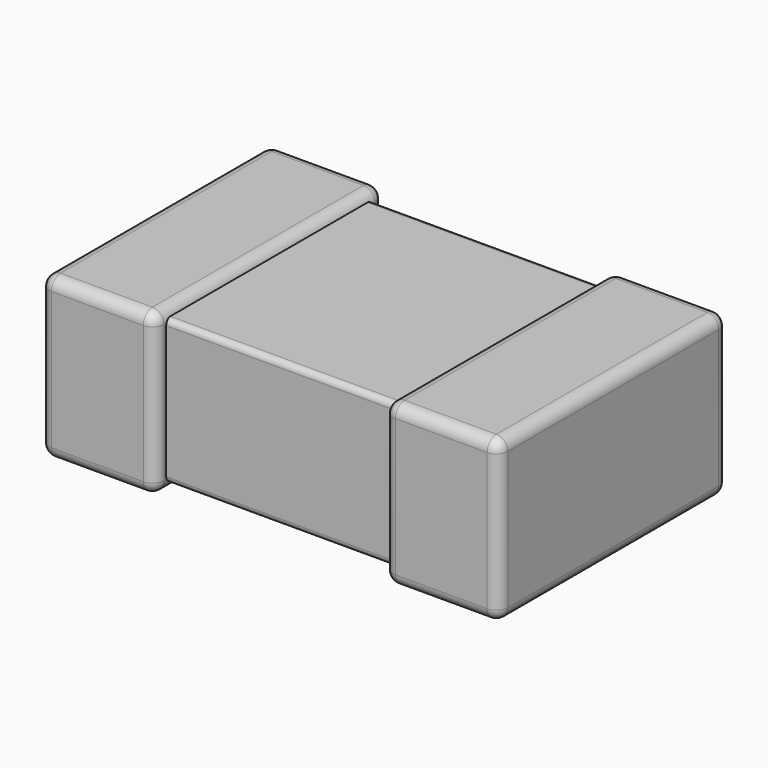
from build123d import *

# Parameters (mm, degrees)
SKETCH001_W  = 0.5
SKETCH001_H  = 0.7
PAD001_DEPTH = 0.625
FILLET_R     = 0.05
SKETCH002_W  = 0.5
SKETCH002_H  = 0.7
PAD002_DEPTH = 0.625
FILLET001_R  = 0.05
SKETCH_W     = 1.8
SKETCH_H     = 1.125
PAD_DEPTH    = 0.63
FILLET002_R  = 0.025


with BuildPart() as body001:
    # Sketch001 → Pad001 (new body, symmetric)
    with BuildSketch(Plane.XZ):
        with Locations((-0.75, 0.35)):
            Rectangle(SKETCH001_W, SKETCH001_H)
    extrude(amount=PAD001_DEPTH, both=True)

    # Fillet
    fillet_edges = [body001.edges().sort_by_distance(p)[0] for p in [
        (-1, 0, 0.7),
        (-1, 0.625, 0.35),
        (-0.75, 0.625, 0.7),
        (-0.5, 0.625, 0.35),
        (-0.75, 0.625, 0),
        (-0.5, 0, 0),
        (-1, 0, 0),
        (-1, -0.625, 0.35),
        (-0.75, -0.625, 0),
        (-0.5, -0.625, 0.35),
        (-0.75, -0.625, 0.7),
        (-0.5, 0, 0.7),
    ]]
    fillet(fillet_edges, radius=FILLET_R)


with BuildPart() as body002:
    # Sketch002 → Pad002 (new body, symmetric)
    with BuildSketch(Plane.XZ):
        with Locations((0.75, 0.35)):
            Rectangle(SKETCH002_W, SKETCH002_H)
    extrude(amount=PAD002_DEPTH, both=True)

    # Fillet001
    fillet001_edges = [body002.edges().sort_by_distance(p)[0] for p in [
        (1, 0, 0),
        (1, 0.625, 0.35),
        (1, -0.625, 0.35),
        (1, 0, 0.7),
        (0.75, -0.625, 0.7),
        (0.75, 0.625, 0.7),
        (0.5, 0, 0.7),
        (0.5, -0.625, 0.35),
        (0.75, -0.625, 0),
        (0.5, 0, 0),
        (0.5, 0.625, 0.35),
        (0.75, 0.625, 0),
    ]]
    fillet(fillet001_edges, radius=FILLET001_R)


with BuildPart() as fusion:
    # Sketch → Pad (new body)
    with BuildSketch(Plane.XY.offset(0.035)):
        Rectangle(SKETCH_W, SKETCH_H)
    extrude(amount=PAD_DEPTH)

    # Fillet002
    fillet002_edges = [fusion.edges().sort_by_distance(p)[0] for p in [
        (0, -0.5625, 0.665),
        (0, 0.5625, 0.665),
        (0, -0.5625, 0.035),
        (0, 0.5625, 0.035),
    ]]
    fillet(fillet002_edges, radius=FILLET002_R)

    # Fusion: union Body001, Body002
    add(body001.part)
    add(body002.part)


solid = fusion.part
